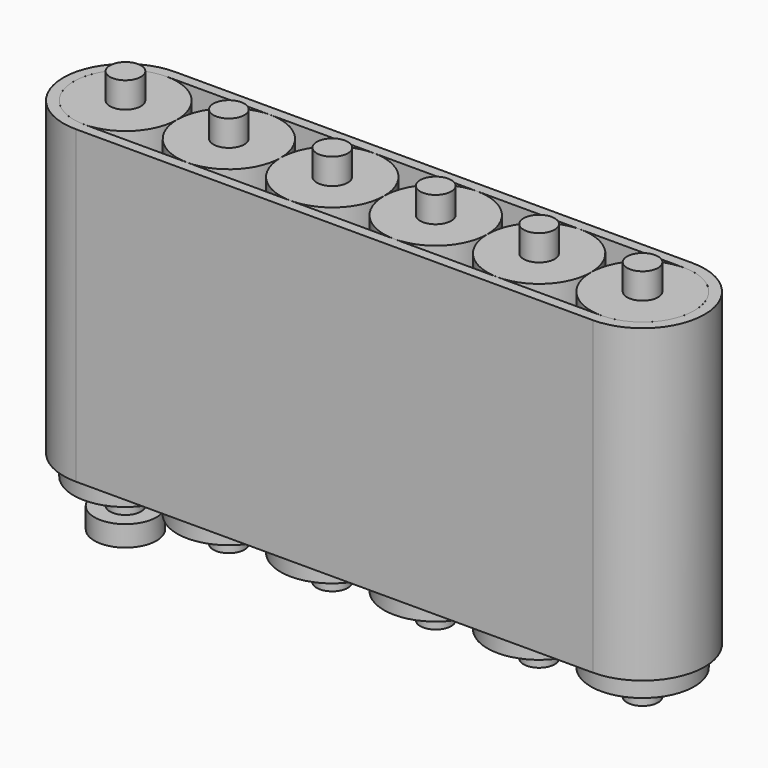
from build123d import *

# Parameters (mm, degrees)
F0_R     = 50
F1_DEPTH = 300
F2_DEPTH = 20
F3_R     = 15
F4_DEPTH = 25
F5_DEPTH = 345
F6_R     = 30
F7_DEPTH = 20
F9_DEPTH = 300


with BuildPart() as f1:
    # F0 (on Top) → F1 (new body)
    with BuildSketch(Plane.XY):
        Circle(F0_R)
        with BuildLine():
            ThreePointArc((550, 0), (500, 50), (450, 0))
            ThreePointArc((450, 0), (500, -50), (550, 0))
        make_face()
        with BuildLine():
            ThreePointArc((450, 0), (400, 50), (350, 0))
            ThreePointArc((350, 0), (400, -50), (450, 0))
        make_face()
        with BuildLine():
            ThreePointArc((350, 0), (300, 50), (250, 0))
            ThreePointArc((250, 0), (300, -50), (350, 0))
        make_face()
        with BuildLine():
            ThreePointArc((250, 0), (200, 50), (150, 0))
            ThreePointArc((150, 0), (200, -50), (250, 0))
        make_face()
        with BuildLine():
            ThreePointArc((150, 0), (100, 50), (50, 0))
            ThreePointArc((50, 0), (100, -50), (150, 0))
        make_face()
    extrude(amount=F1_DEPTH)


with BuildPart() as f2:
    # F0 (on Top) → F2 (new body)
    with BuildSketch(Plane.XY):
        Circle(F0_R)
        with BuildLine():
            ThreePointArc((550, 0), (500, 50), (450, 0))
            ThreePointArc((450, 0), (500, -50), (550, 0))
        make_face()
        with BuildLine():
            ThreePointArc((450, 0), (400, 50), (350, 0))
            ThreePointArc((350, 0), (400, -50), (450, 0))
        make_face()
        with BuildLine():
            ThreePointArc((350, 0), (300, 50), (250, 0))
            ThreePointArc((250, 0), (300, -50), (350, 0))
        make_face()
        with BuildLine():
            ThreePointArc((250, 0), (200, 50), (150, 0))
            ThreePointArc((150, 0), (200, -50), (250, 0))
        make_face()
        with BuildLine():
            ThreePointArc((150, 0), (100, 50), (50, 0))
            ThreePointArc((50, 0), (100, -50), (150, 0))
        make_face()
    extrude(amount=-F2_DEPTH)


with BuildPart() as f4:
    # F3 (on face) → F4 (new body)
    with BuildSketch(Plane(origin=(0, 0, -20), x_dir=(1, 0, 0), z_dir=(0, 0, -1))):
        Circle(F3_R)
        with Locations((100, 0)):
            Circle(F3_R)
        with Locations((200, 0)):
            Circle(F3_R)
        with Locations((300, 0)):
            Circle(F3_R)
        with Locations((400, 0)):
            Circle(F3_R)
        with Locations((500, 0)):
            Circle(F3_R)
    extrude(amount=F4_DEPTH)


with BuildPart() as f5:
    # F3 (on face) → F5 (new body)
    with BuildSketch(Plane(origin=(0, 0, -20), x_dir=(1, 0, 0), z_dir=(0, 0, -1))):
        Circle(F3_R)
        with Locations((100, 0)):
            Circle(F3_R)
        with Locations((200, 0)):
            Circle(F3_R)
        with Locations((300, 0)):
            Circle(F3_R)
        with Locations((400, 0)):
            Circle(F3_R)
        with Locations((500, 0)):
            Circle(F3_R)
    extrude(amount=-F5_DEPTH)


with BuildPart() as f7:
    # F6 (on face) → F7 (new body)
    with BuildSketch(Plane(origin=(0, 0, -45), x_dir=(1, 0, 0), z_dir=(0, 0, -1))):
        Circle(F6_R)
    extrude(amount=F7_DEPTH)


with BuildPart() as f9:
    # F8 (on face) → F9 (new body)
    with BuildSketch(Plane.XY.offset(300)):
        with BuildLine():
            Line((500, 60), (0, 60))
            ThreePointArc((0, 60), (-60, 0), (0, -60))
            Line((0, -60), (500, -60))
            ThreePointArc((500, -60), (560, 0), (500, 60))
        make_face()
        with BuildLine():
            ThreePointArc((0, -50), (-50, 0), (0, 50))
            Line((0, 50), (500, 50))
            ThreePointArc((500, 50), (550, 0), (500, -50))
            Line((500, -50), (0, -50))
        make_face(mode=Mode.SUBTRACT)
    extrude(amount=-F9_DEPTH)


solid = Compound([f1.part, f2.part, f4.part, f5.part, f7.part, f9.part])
